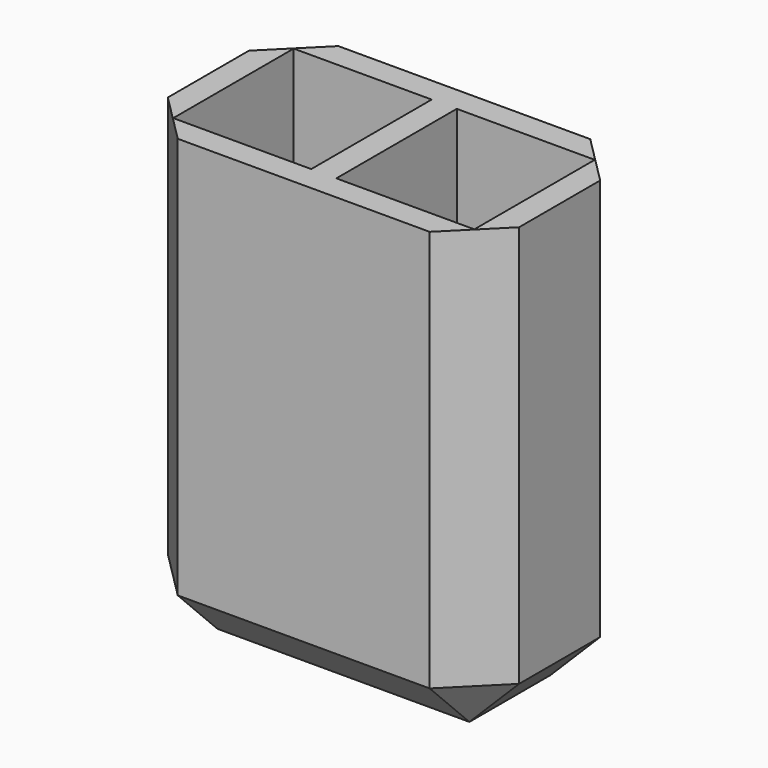
from build123d import *

# Parameters (mm, degrees)
F0_W          = 5
F0_H          = 30
F2_DEPTH      = 90
F0_W_2        = 70
F0_H_2        = 40
F3_DEPTH      = 90
F0_W_3        = 27.5
F4_DEPTH      = 10
F1_R          = 7.5
F5_DEPTH      = 15
F5_DEPTH_BACK = 25
F6_SIZE       = 9.9


with BuildPart() as f2:
    # F0 (on Top) → F2 (new body)
    with BuildSketch(Plane.XY):
        Rectangle(F0_W, F0_H)
    extrude(amount=F2_DEPTH)

    # F0 (on Top) → F3 (join)
    with BuildSketch(Plane.XY):
        Rectangle(F0_W_2, F0_H_2)
        Polygon((-30, -15), (-30, 15), (-2.5, 15), (2.5, 15), (30, 15), (30, -15), (2.5, -15), (-2.5, -15), align=None, mode=Mode.SUBTRACT)
    extrude(amount=F3_DEPTH)

    # F0 (on Top) → F4 (join)
    with BuildSketch(Plane.XY):
        with Locations((-16.25, 0)):
            Rectangle(F0_W_3, F0_H)
        with Locations((16.25, 0)):
            Rectangle(F0_W_3, F0_H)
    extrude(amount=F4_DEPTH)

    # F1 (on Right) → F5 (cut, two sides)
    with BuildSketch(Plane.YZ) as f5_sk:
        with Locations((0, 65)):
            Circle(F1_R)
    extrude(amount=F5_DEPTH, mode=Mode.SUBTRACT)
    extrude(f5_sk.sketch, amount=-F5_DEPTH_BACK, mode=Mode.SUBTRACT)

    # F6
    f6_edges = [f2.edges().sort_by_distance(p)[0] for p in [
        (35, -20, 45),
        (35, 20, 45),
        (-35, 20, 45),
        (-35, -20, 45),
        (0, 20, 0),
        (35, 0, 0),
        (0, -20, 0),
        (-35, 0, 0),
    ]]
    chamfer(f6_edges, length=F6_SIZE)


solid = f2.part
